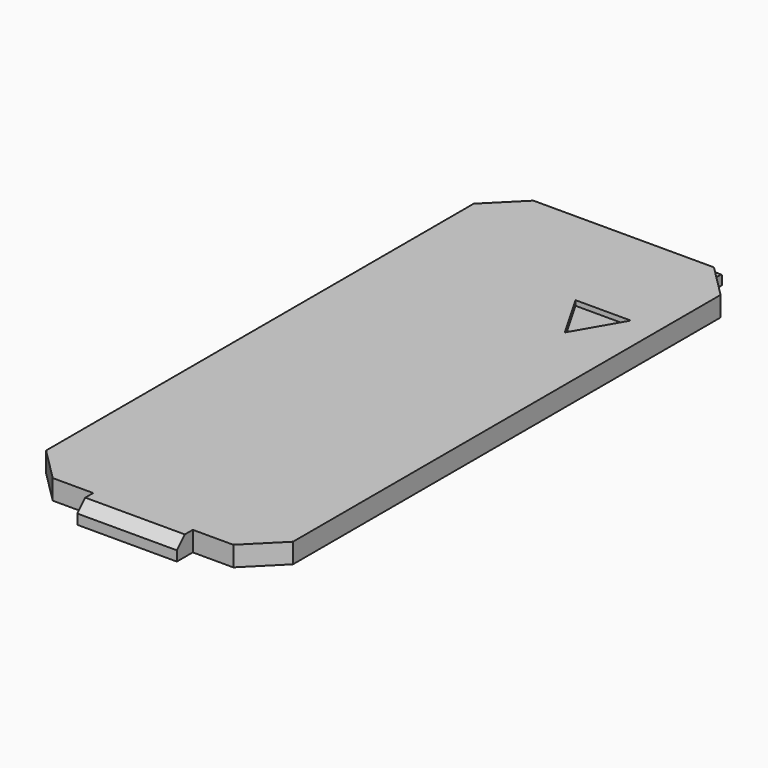
from build123d import *

# Parameters (mm, degrees)
F1_W      = 44.65
F1_H      = 108.65
F2_DEPTH  = 3.6
F3_SIZE   = 5.9976
F4_W      = 32.6548
F4_H      = 1.8
F5_DEPTH  = 1.8
F6_R      = 0.25
F7_W      = 18
F7_H      = 3.6
F8_DEPTH  = 3.6
F9_SIZE   = 1.8
F11_DEPTH = 0.9


with BuildPart() as f2:
    # F1 (on Top) → F2 (new body)
    with BuildSketch(Plane.XY):
        Rectangle(F1_W, F1_H)
    extrude(amount=F2_DEPTH)

    # F3
    f3_edges = [f2.edges().sort_by_distance(p)[0] for p in [
        (22.325, -54.325, 1.8),
        (-22.325, -54.325, 1.8),
        (-22.325, 54.325, 1.8),
        (22.325, 54.325, 1.8),
    ]]
    chamfer(f3_edges, length=F3_SIZE)

    # F4 (on face) → F5 (join)
    with BuildSketch(Plane(origin=(0, 54.325, 0), x_dir=(-1, 0, 0), z_dir=(0, 1, 0))):
        with Locations((0, 0.9)):
            Rectangle(F4_W, F4_H)
    extrude(amount=F5_DEPTH)

    # F6
    f6_edges = [f2.edges().sort_by_distance(p)[0] for p in [
        (0, 56.125, 1.8),
    ]]
    fillet(f6_edges, radius=F6_R)

    # F7 (on face) → F8 (join)
    with BuildSketch(Plane.XZ.offset(54.325)):
        with Locations((0, 1.8)):
            Rectangle(F7_W, F7_H)
    extrude(amount=F8_DEPTH)

    # F9
    f9_edges = [f2.edges().sort_by_distance(p)[0] for p in [
        (0, -57.925, 3.6),
    ]]
    chamfer(f9_edges, length=F9_SIZE)

    # F10 (on face) → F11 (cut)
    with BuildSketch(Plane.XY.offset(3.6)):
        Polygon((17.325, 34.2784180126), (7.325, 34.2784180126), (12.325, 25.6181639748), align=None)
    extrude(amount=-F11_DEPTH, mode=Mode.SUBTRACT)


solid = f2.part
